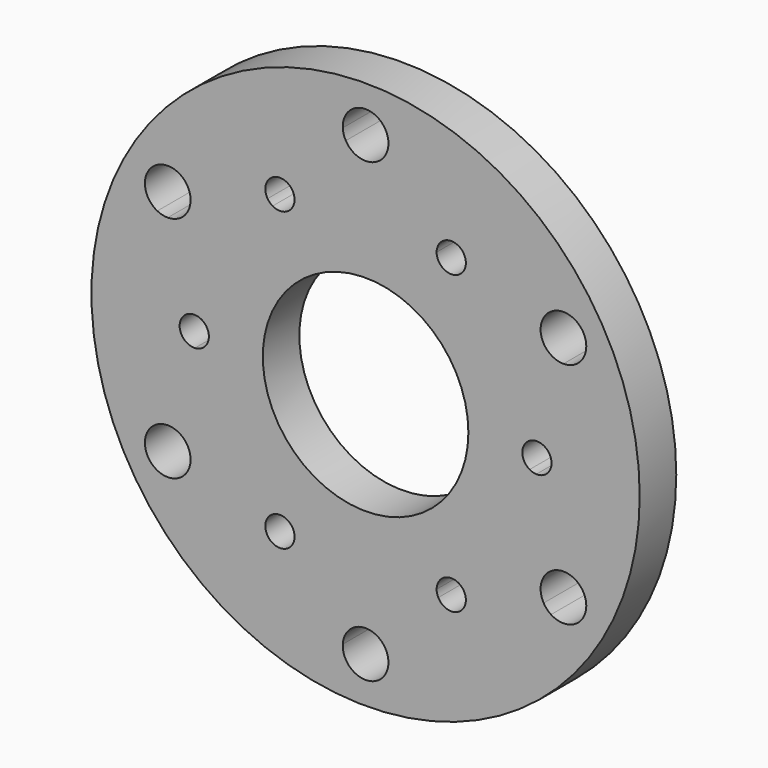
from build123d import *

# Parameters (mm, degrees)
F0_R     = 38.1
F0_R_2   = 14.2875
F1_DEPTH = 6.35
F3_DEPTH = 6.351


with BuildPart() as f1:
    # F0 (on Front) → F1 (new body)
    with BuildSketch(Plane.XZ):
        Circle(F0_R)
        Circle(F0_R_2, mode=Mode.SUBTRACT)
    extrude(amount=F1_DEPTH)

    # F2 (on face) → F3 (cut, through all)
    with BuildSketch(Plane.XZ.offset(6.35)):
        with BuildLine():
            ThreePointArc((27.4963065702, 15.875), (28.2556646786, 14.4803285036), (28.9443394205, 13.0494335321))
            ThreePointArc((28.9443394205, 13.0494335321), (30.2053773795, 14.2192342104), (30.6713065702, 15.875))
            ThreePointArc((30.6713065702, 15.875), (29.0145478169, 18.6634706412), (25.7733106541, 18.5418164679))
            ThreePointArc((25.7733106541, 18.5418164679), (26.6681646786, 17.2299591606), (27.4963065702, 15.875))
        make_face()
        with BuildLine():
            ThreePointArc((27.4963065702, 12.7), (28.2411056923, 12.7885944421), (28.9443394205, 13.0494335321))
            ThreePointArc((28.9443394205, 13.0494335321), (28.2556646786, 14.4803285036), (27.4963065702, 15.875))
            Line((27.4963065702, 15.875), (27.4963065702, 12.7))
        make_face()
        with BuildLine():
            Line((24.7466759131, 17.4625), (27.4963065702, 15.875))
            ThreePointArc((27.4963065702, 15.875), (26.6681646786, 17.2299591606), (25.7733106541, 18.5418164679))
            ThreePointArc((25.7733106541, 18.5418164679), (25.1958005117, 18.0632177394), (24.7466759131, 17.4625))
        make_face()
        with BuildLine():
            ThreePointArc((0, 31.75), (1.5875, 31.7102876643), (3.1710287664, 31.59125))
            ThreePointArc((3.1710287664, 31.59125), (3.1740070363, 31.6706001681), (3.175, 31.75))
            ThreePointArc((3.175, 31.75), (-0.0793998319, 34.9240070363), (-3.1710287664, 31.59125))
            ThreePointArc((-3.1710287664, 31.59125), (-1.5875, 31.7102876643), (0, 31.75))
        make_face()
        with BuildLine():
            ThreePointArc((2.749630657, 30.1625), (3.0453051806, 30.8518121815), (3.1710287664, 31.59125))
            ThreePointArc((3.1710287664, 31.59125), (1.5875, 31.7102876643), (0, 31.75))
            Line((0, 31.75), (2.749630657, 30.1625))
        make_face()
        with BuildLine():
            Line((-2.749630657, 30.1625), (0, 31.75))
            ThreePointArc((0, 31.75), (-1.5875, 31.7102876643), (-3.1710287664, 31.59125))
            ThreePointArc((-3.1710287664, 31.59125), (-3.0453051806, 30.8518121815), (-2.749630657, 30.1625))
        make_face()
        with BuildLine():
            ThreePointArc((-27.4963065702, 15.875), (-26.6681646786, 17.2299591606), (-25.7733106541, 18.5418164679))
            ThreePointArc((-25.7733106541, 18.5418164679), (-30.2459372272, 17.4625), (-28.9443394205, 13.0494335321))
            ThreePointArc((-28.9443394205, 13.0494335321), (-28.2556646786, 14.4803285036), (-27.4963065702, 15.875))
        make_face()
        with BuildLine():
            Line((-27.4963065702, 15.875), (-24.7466759131, 17.4625))
            ThreePointArc((-24.7466759131, 17.4625), (-25.1958005117, 18.0632177394), (-25.7733106541, 18.5418164679))
            ThreePointArc((-25.7733106541, 18.5418164679), (-26.6681646786, 17.2299591606), (-27.4963065702, 15.875))
        make_face()
        with BuildLine():
            Line((-27.4963065702, 12.7), (-27.4963065702, 15.875))
            ThreePointArc((-27.4963065702, 15.875), (-28.2556646786, 14.4803285036), (-28.9443394205, 13.0494335321))
            ThreePointArc((-28.9443394205, 13.0494335321), (-28.2411056923, 12.7885944421), (-27.4963065702, 12.7))
        make_face()
        with BuildLine():
            ThreePointArc((-28.9443394205, -13.0494335321), (-30.2459372272, -17.4625), (-25.7733106541, -18.5418164679))
            ThreePointArc((-25.7733106541, -18.5418164679), (-26.6681646786, -17.2299591606), (-27.4963065702, -15.875))
            ThreePointArc((-27.4963065702, -15.875), (-28.2556646786, -14.4803285036), (-28.9443394205, -13.0494335321))
        make_face()
        with BuildLine():
            ThreePointArc((-28.9443394205, -13.0494335321), (-28.2556646786, -14.4803285036), (-27.4963065702, -15.875))
            Line((-27.4963065702, -15.875), (-27.4963065702, -12.7))
            ThreePointArc((-27.4963065702, -12.7), (-28.2411056923, -12.7885944421), (-28.9443394205, -13.0494335321))
        make_face()
        with BuildLine():
            ThreePointArc((-25.7733106541, -18.5418164679), (-25.1958005117, -18.0632177394), (-24.7466759131, -17.4625))
            Line((-24.7466759131, -17.4625), (-27.4963065702, -15.875))
            ThreePointArc((-27.4963065702, -15.875), (-26.6681646786, -17.2299591606), (-25.7733106541, -18.5418164679))
        make_face()
        with BuildLine():
            ThreePointArc((3.175, -31.75), (3.1740070363, -31.6706001681), (3.1710287664, -31.59125))
            ThreePointArc((3.1710287664, -31.59125), (1.5875, -31.7102876643), (0, -31.75))
            ThreePointArc((0, -31.75), (-1.5875, -31.7102876643), (-3.1710287664, -31.59125))
            ThreePointArc((-3.1710287664, -31.59125), (-0.0793998319, -34.9240070363), (3.175, -31.75))
        make_face()
        with BuildLine():
            ThreePointArc((-3.1710287664, -31.59125), (-1.5875, -31.7102876643), (0, -31.75))
            Line((0, -31.75), (-2.749630657, -30.1625))
            ThreePointArc((-2.749630657, -30.1625), (-3.0453051806, -30.8518121815), (-3.1710287664, -31.59125))
        make_face()
        with BuildLine():
            ThreePointArc((0, -31.75), (1.5875, -31.7102876643), (3.1710287664, -31.59125))
            ThreePointArc((3.1710287664, -31.59125), (3.0453051806, -30.8518121815), (2.749630657, -30.1625))
            Line((2.749630657, -30.1625), (0, -31.75))
        make_face()
        with BuildLine():
            ThreePointArc((30.6713065702, -15.875), (30.2053773795, -14.2192342104), (28.9443394205, -13.0494335321))
            ThreePointArc((28.9443394205, -13.0494335321), (28.2556646786, -14.4803285036), (27.4963065702, -15.875))
            ThreePointArc((27.4963065702, -15.875), (26.6681646786, -17.2299591606), (25.7733106541, -18.5418164679))
            ThreePointArc((25.7733106541, -18.5418164679), (29.0145478169, -18.6634706412), (30.6713065702, -15.875))
        make_face()
        with BuildLine():
            ThreePointArc((25.7733106541, -18.5418164679), (26.6681646786, -17.2299591606), (27.4963065702, -15.875))
            Line((27.4963065702, -15.875), (24.7466759131, -17.4625))
            ThreePointArc((24.7466759131, -17.4625), (25.1958005117, -18.0632177394), (25.7733106541, -18.5418164679))
        make_face()
        with BuildLine():
            ThreePointArc((27.4963065702, -15.875), (28.2556646786, -14.4803285036), (28.9443394205, -13.0494335321))
            ThreePointArc((28.9443394205, -13.0494335321), (28.2411056923, -12.7885944421), (27.4963065702, -12.7))
            Line((27.4963065702, -12.7), (27.4963065702, -15.875))
        make_face()
        with BuildLine():
            ThreePointArc((-24.3213065702, 15.875), (-24.4294920717, 16.6967504682), (-24.7466759131, 17.4625))
            Line((-24.7466759131, 17.4625), (-27.4963065702, 15.875))
            Line((-27.4963065702, 15.875), (-27.4963065702, 12.7))
            ThreePointArc((-27.4963065702, 12.7), (-25.2512425399, 13.6299359697), (-24.3213065702, 15.875))
        make_face()
        with BuildLine():
            Line((-27.4963065702, -15.875), (-24.7466759131, -17.4625))
            ThreePointArc((-24.7466759131, -17.4625), (-24.4294920717, -16.6967504682), (-24.3213065702, -15.875))
            ThreePointArc((-24.3213065702, -15.875), (-25.2512425399, -13.6299359697), (-27.4963065702, -12.7))
            Line((-27.4963065702, -12.7), (-27.4963065702, -15.875))
        make_face()
        with BuildLine():
            Line((0, -31.75), (2.749630657, -30.1625))
            ThreePointArc((2.749630657, -30.1625), (0, -28.575), (-2.749630657, -30.1625))
            Line((-2.749630657, -30.1625), (0, -31.75))
        make_face()
        with BuildLine():
            Line((24.7466759131, -17.4625), (27.4963065702, -15.875))
            Line((27.4963065702, -15.875), (27.4963065702, -12.7))
            ThreePointArc((27.4963065702, -12.7), (24.7466759131, -14.2875), (24.7466759131, -17.4625))
        make_face()
        with BuildLine():
            Line((27.4963065702, 12.7), (27.4963065702, 15.875))
            Line((27.4963065702, 15.875), (24.7466759131, 17.4625))
            ThreePointArc((24.7466759131, 17.4625), (24.7466759131, 14.2875), (27.4963065702, 12.7))
        make_face()
        with BuildLine():
            ThreePointArc((-2.749630657, 30.1625), (0, 28.575), (2.749630657, 30.1625))
            Line((2.749630657, 30.1625), (0, 31.75))
            Line((0, 31.75), (-2.749630657, 30.1625))
        make_face()
        with BuildLine():
            ThreePointArc((-11.90625, 20.6222299276), (-11.0155259197, 21.1114505651), (-10.1047395518, 21.5622214728))
            ThreePointArc((-10.1047395518, 21.5622214728), (-12.92225, 22.3819935481), (-13.6210617816, 19.5320718869))
            ThreePointArc((-13.6210617816, 19.5320718869), (-12.7752895402, 20.0954505651), (-11.90625, 20.6222299276))
        make_face()
        with BuildLine():
            ThreePointArc((-12.92225, 18.8624663071), (-10.89025, 18.8624663071), (-9.87425, 20.6222299276))
            Line((-9.87425, 20.6222299276), (-11.90625, 20.6222299276))
            Line((-11.90625, 20.6222299276), (-12.92225, 18.8624663071))
        make_face()
        with BuildLine():
            Line((-11.90625, 20.6222299276), (-9.87425, 20.6222299276))
            ThreePointArc((-9.87425, 20.6222299276), (-9.9327134244, 21.1061487066), (-10.1047395518, 21.5622214728))
            ThreePointArc((-10.1047395518, 21.5622214728), (-11.0155259197, 21.1114505651), (-11.90625, 20.6222299276))
        make_face()
        with BuildLine():
            Line((-12.92225, 18.8624663071), (-11.90625, 20.6222299276))
            ThreePointArc((-11.90625, 20.6222299276), (-12.7752895402, 20.0954505651), (-13.6210617816, 19.5320718869))
            ThreePointArc((-13.6210617816, 19.5320718869), (-13.3121042437, 19.1550565073), (-12.92225, 18.8624663071))
        make_face()
        with BuildLine():
            Line((9.87425, 20.6222299276), (11.90625, 20.6222299276))
            ThreePointArc((11.90625, 20.6222299276), (11.0155259197, 21.1114505651), (10.1047395518, 21.5622214728))
            ThreePointArc((10.1047395518, 21.5622214728), (9.9327134244, 21.1061487066), (9.87425, 20.6222299276))
        make_face()
        with BuildLine():
            ThreePointArc((11.90625, 20.6222299276), (12.7752895402, 20.0954505651), (13.6210617816, 19.5320718869))
            ThreePointArc((13.6210617816, 19.5320718869), (13.8573421993, 20.0545475957), (13.93825, 20.6222299276))
            ThreePointArc((13.93825, 20.6222299276), (12.3901687789, 22.5957665033), (10.1047395518, 21.5622214728))
            ThreePointArc((10.1047395518, 21.5622214728), (11.0155259197, 21.1114505651), (11.90625, 20.6222299276))
        make_face()
        with BuildLine():
            ThreePointArc((9.87425, 20.6222299276), (10.89025, 18.8624663071), (12.92225, 18.8624663071))
            Line((12.92225, 18.8624663071), (11.90625, 20.6222299276))
            Line((11.90625, 20.6222299276), (9.87425, 20.6222299276))
        make_face()
        with BuildLine():
            ThreePointArc((12.92225, 18.8624663071), (13.3121042437, 19.1550565073), (13.6210617816, 19.5320718869))
            ThreePointArc((13.6210617816, 19.5320718869), (12.7752895402, 20.0954505651), (11.90625, 20.6222299276))
            Line((11.90625, 20.6222299276), (12.92225, 18.8624663071))
        make_face()
        with BuildLine():
            Line((11.90625, -20.6222299276), (12.92225, -18.8624663071))
            ThreePointArc((12.92225, -18.8624663071), (10.89025, -18.8624663071), (9.87425, -20.6222299276))
            Line((9.87425, -20.6222299276), (11.90625, -20.6222299276))
        make_face()
        with BuildLine():
            ThreePointArc((13.93825, -20.6222299276), (13.8573421993, -20.0545475957), (13.6210617816, -19.5320718869))
            ThreePointArc((13.6210617816, -19.5320718869), (12.7752895402, -20.0954505651), (11.90625, -20.6222299276))
            ThreePointArc((11.90625, -20.6222299276), (11.0155259197, -21.1114505651), (10.1047395518, -21.5622214728))
            ThreePointArc((10.1047395518, -21.5622214728), (12.3901687789, -22.5957665033), (13.93825, -20.6222299276))
        make_face()
        with BuildLine():
            ThreePointArc((11.90625, -20.6222299276), (12.7752895402, -20.0954505651), (13.6210617816, -19.5320718869))
            ThreePointArc((13.6210617816, -19.5320718869), (13.3121042437, -19.1550565073), (12.92225, -18.8624663071))
            Line((12.92225, -18.8624663071), (11.90625, -20.6222299276))
        make_face()
        with BuildLine():
            ThreePointArc((10.1047395518, -21.5622214728), (11.0155259197, -21.1114505651), (11.90625, -20.6222299276))
            Line((11.90625, -20.6222299276), (9.87425, -20.6222299276))
            ThreePointArc((9.87425, -20.6222299276), (9.9327134244, -21.1061487066), (10.1047395518, -21.5622214728))
        make_face()
        with BuildLine():
            ThreePointArc((-13.6210617816, -19.5320718869), (-12.92225, -22.3819935481), (-10.1047395518, -21.5622214728))
            ThreePointArc((-10.1047395518, -21.5622214728), (-11.0155259197, -21.1114505651), (-11.90625, -20.6222299276))
            ThreePointArc((-11.90625, -20.6222299276), (-12.7752895402, -20.0954505651), (-13.6210617816, -19.5320718869))
        make_face()
        with BuildLine():
            ThreePointArc((-10.1047395518, -21.5622214728), (-9.9327134244, -21.1061487066), (-9.87425, -20.6222299276))
            Line((-9.87425, -20.6222299276), (-11.90625, -20.6222299276))
            ThreePointArc((-11.90625, -20.6222299276), (-11.0155259197, -21.1114505651), (-10.1047395518, -21.5622214728))
        make_face()
        with BuildLine():
            Line((-11.90625, -20.6222299276), (-9.87425, -20.6222299276))
            ThreePointArc((-9.87425, -20.6222299276), (-10.89025, -18.8624663071), (-12.92225, -18.8624663071))
            Line((-12.92225, -18.8624663071), (-11.90625, -20.6222299276))
        make_face()
        with BuildLine():
            ThreePointArc((-13.6210617816, -19.5320718869), (-12.7752895402, -20.0954505651), (-11.90625, -20.6222299276))
            Line((-11.90625, -20.6222299276), (-12.92225, -18.8624663071))
            ThreePointArc((-12.92225, -18.8624663071), (-13.3121042437, -19.1550565073), (-13.6210617816, -19.5320718869))
        make_face()
        with BuildLine():
            Line((-23.8125, 0), (-22.7965, 1.7597636205))
            ThreePointArc((-22.7965, 1.7597636205), (-23.2448176681, 1.9510921993), (-23.7258013333, 2.0301495859))
            ThreePointArc((-23.7258013333, 2.0301495859), (-23.79081546, 1.016), (-23.8125, 0))
        make_face()
        with BuildLine():
            ThreePointArc((-21.7805, 0), (-22.0527363795, 1.016), (-22.7965, 1.7597636205))
            Line((-22.7965, 1.7597636205), (-23.8125, 0))
            Line((-23.8125, 0), (-22.7965, -1.7597636205))
            ThreePointArc((-22.7965, -1.7597636205), (-22.0527363795, -1.016), (-21.7805, 0))
        make_face()
        with BuildLine():
            ThreePointArc((-23.7258013333, -2.0301495859), (-23.2448176681, -1.9510921993), (-22.7965, -1.7597636205))
            Line((-22.7965, -1.7597636205), (-23.8125, 0))
            ThreePointArc((-23.8125, 0), (-23.79081546, -1.016), (-23.7258013333, -2.0301495859))
        make_face()
        with BuildLine():
            ThreePointArc((-23.8125, 0), (-23.79081546, 1.016), (-23.7258013333, 2.0301495859))
            ThreePointArc((-23.7258013333, 2.0301495859), (-25.8445, 0), (-23.7258013333, -2.0301495859))
            ThreePointArc((-23.7258013333, -2.0301495859), (-23.79081546, -1.016), (-23.8125, 0))
        make_face()
        with BuildLine():
            ThreePointArc((23.7258013333, 2.0301495859), (23.79081546, 1.016), (23.8125, 0))
            ThreePointArc((23.8125, 0), (23.79081546, -1.016), (23.7258013333, -2.0301495859))
            ThreePointArc((23.7258013333, -2.0301495859), (25.2183542437, -1.4671734203), (25.8445, 0))
            ThreePointArc((25.8445, 0), (25.2183542437, 1.4671734203), (23.7258013333, 2.0301495859))
        make_face()
        with BuildLine():
            Line((22.7965, 1.7597636205), (23.8125, 0))
            ThreePointArc((23.8125, 0), (23.79081546, 1.016), (23.7258013333, 2.0301495859))
            ThreePointArc((23.7258013333, 2.0301495859), (23.2448176681, 1.9510921993), (22.7965, 1.7597636205))
        make_face()
        with BuildLine():
            Line((22.7965, -1.7597636205), (23.8125, 0))
            Line((23.8125, 0), (22.7965, 1.7597636205))
            ThreePointArc((22.7965, 1.7597636205), (21.7805, 0), (22.7965, -1.7597636205))
        make_face()
        with BuildLine():
            ThreePointArc((23.7258013333, -2.0301495859), (23.79081546, -1.016), (23.8125, 0))
            Line((23.8125, 0), (22.7965, -1.7597636205))
            ThreePointArc((22.7965, -1.7597636205), (23.2448176681, -1.9510921993), (23.7258013333, -2.0301495859))
        make_face()
    extrude(amount=-F3_DEPTH, mode=Mode.SUBTRACT)


solid = f1.part
